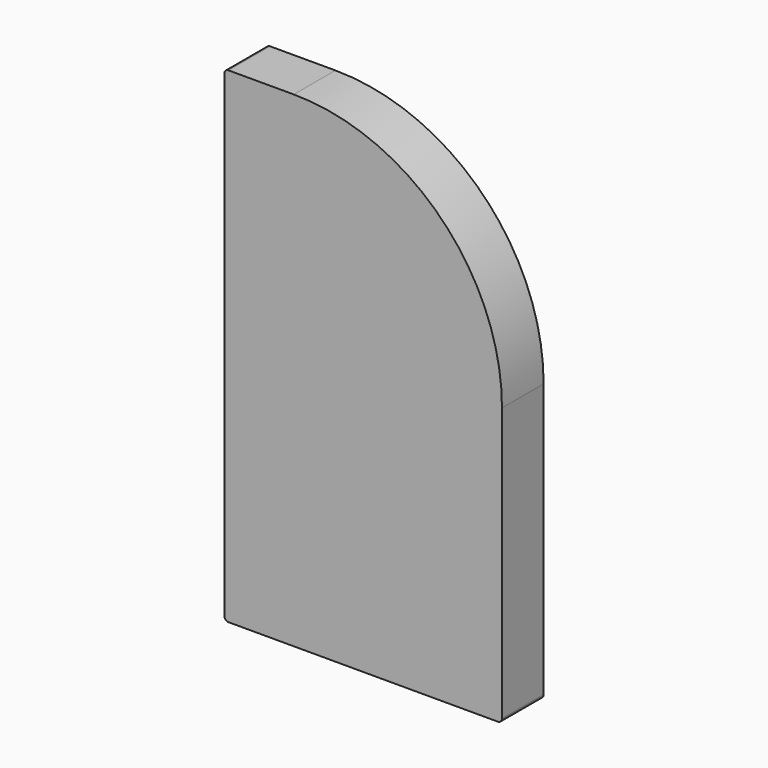
from build123d import *

# Parameters (mm, degrees)
F0_W     = 25.4
F0_H     = 44.45
F1_DEPTH = 4.7625
F2_R     = 0.381
F3_R     = 19.05


with BuildPart() as f1:
    # F0 (on Front) → F1 (new body)
    with BuildSketch(Plane.XZ):
        Rectangle(F0_W, F0_H)
    extrude(amount=F1_DEPTH)

    # F2
    f2_edges = [f1.edges().sort_by_distance(p)[0] for p in [
        (-12.7, -2.38125, -22.225),
        (12.7, -2.38125, -22.225),
        (-12.7, -2.38125, 22.225),
    ]]
    fillet(f2_edges, radius=F2_R)

    # F3
    f3_edges = [f1.edges().sort_by_distance(p)[0] for p in [
        (12.7, -2.38125, 22.225),
    ]]
    fillet(f3_edges, radius=F3_R)


solid = f1.part
